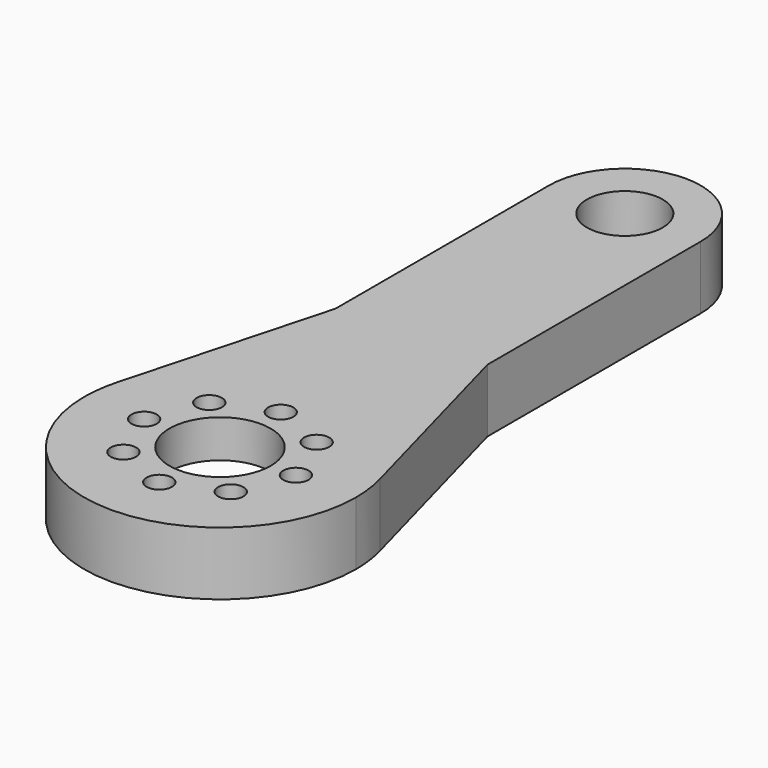
from build123d import *

# Parameters (mm, degrees)
F0_R     = 8.25
F0_R_2   = 3
F0_R_3   = 1
F0_R_4   = 4
F1_DEPTH = 5
F2_DEPTH = 2


with BuildPart() as f1:
    # F0 (on Top) → F1 (new body)
    with BuildSketch(Plane.XY):
        with BuildLine():
            Line((-6, 18.919781), (-6, 8.919781))
            ThreePointArc((-6, 8.919781), (-8.736982, 6.263198), (-10.374039, 2.818123))
            ThreePointArc((-10.374039, 2.818123), (-10.655595, 1.421545), (-10.75, 0))
            ThreePointArc((-10.75, 0), (0, -10.75), (10.75, 0))
            ThreePointArc((10.75, 0), (10.655595, 1.421545), (10.374039, 2.818123))
            ThreePointArc((10.374039, 2.818123), (8.736982, 6.263198), (6, 8.919781))
            Line((6, 8.919781), (6, 18.919781))
            Line((6, 18.919781), (6, 40))
            ThreePointArc((6, 40), (0, 46), (-6, 40))
            Line((-6, 40), (-6, 18.919781))
        make_face()
        Circle(F0_R, mode=Mode.SUBTRACT)
        with Locations((0, 40)):
            Circle(F0_R_2, mode=Mode.SUBTRACT)
        Circle(F0_R)
        with Locations((-6, 0)):
            Circle(F0_R_3, mode=Mode.SUBTRACT)
        with Locations((-4.242641, -4.242641)):
            Circle(F0_R_3, mode=Mode.SUBTRACT)
        with Locations((-4.242641, 4.242641)):
            Circle(F0_R_3, mode=Mode.SUBTRACT)
        with Locations((0, -6)):
            Circle(F0_R_3, mode=Mode.SUBTRACT)
        with Locations((4.242641, -4.242641)):
            Circle(F0_R_3, mode=Mode.SUBTRACT)
        Circle(F0_R_4, mode=Mode.SUBTRACT)
        with Locations((4.242641, 4.242641)):
            Circle(F0_R_3, mode=Mode.SUBTRACT)
        with Locations((6, 0)):
            Circle(F0_R_3, mode=Mode.SUBTRACT)
        with Locations((0, 6)):
            Circle(F0_R_3, mode=Mode.SUBTRACT)
        with BuildLine():
            ThreePointArc((-10.374039, 2.818123), (-8.736982, 6.263198), (-6, 8.919781))
            Line((-6, 8.919781), (-6, 18.919781))
            Line((-6, 18.919781), (-10.374039, 2.818123))
        make_face()
        with BuildLine():
            ThreePointArc((6, 8.919781), (8.736982, 6.263198), (10.374039, 2.818123))
            Line((10.374039, 2.818123), (6, 18.919781))
            Line((6, 18.919781), (6, 8.919781))
        make_face()
    extrude(amount=F1_DEPTH)

    # F0 (on Top) → F2 (cut)
    with BuildSketch(Plane.XY):
        Circle(F0_R)
        with Locations((-6, 0)):
            Circle(F0_R_3, mode=Mode.SUBTRACT)
        with Locations((-4.242641, -4.242641)):
            Circle(F0_R_3, mode=Mode.SUBTRACT)
        with Locations((-4.242641, 4.242641)):
            Circle(F0_R_3, mode=Mode.SUBTRACT)
        with Locations((0, -6)):
            Circle(F0_R_3, mode=Mode.SUBTRACT)
        with Locations((4.242641, -4.242641)):
            Circle(F0_R_3, mode=Mode.SUBTRACT)
        Circle(F0_R_4, mode=Mode.SUBTRACT)
        with Locations((4.242641, 4.242641)):
            Circle(F0_R_3, mode=Mode.SUBTRACT)
        with Locations((6, 0)):
            Circle(F0_R_3, mode=Mode.SUBTRACT)
        with Locations((0, 6)):
            Circle(F0_R_3, mode=Mode.SUBTRACT)
    extrude(amount=F2_DEPTH, mode=Mode.SUBTRACT)


solid = f1.part
